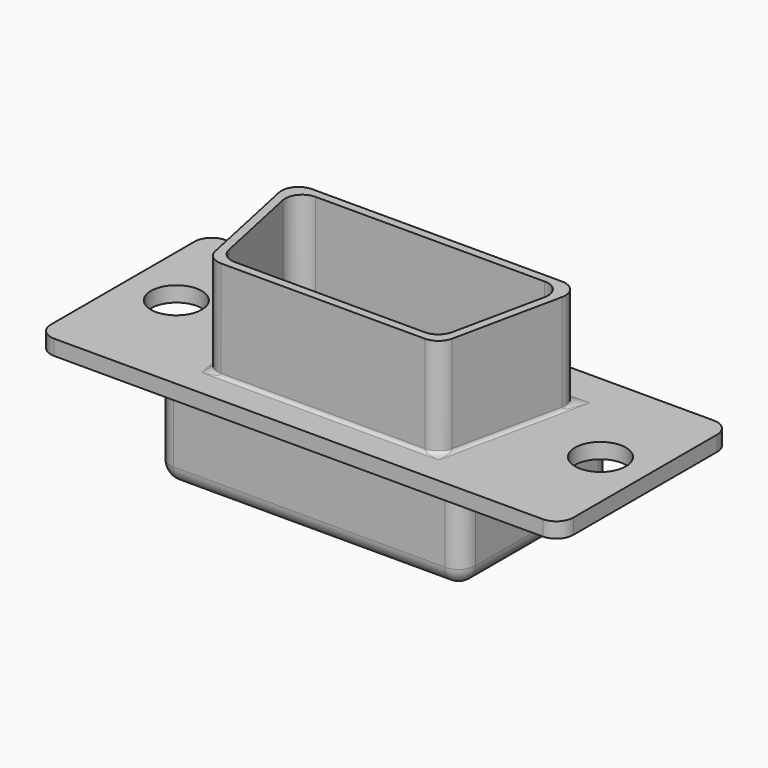
from build123d import *

# Parameters (mm, degrees)
CYLINDER_R        = 1.5
CYLINDER_DEPTH    = 10
CYLINDER001_R     = 1.5
CYLINDER001_DEPTH = 10
BOX001_W          = 18
BOX001_H          = 11
BOX001_DEPTH      = 5.2
BOX_W             = 30.8
BOX_H             = 12.6
BOX_DEPTH         = 0.9
FILLET_R          = 1
FILLET001_R       = 1
PAD_DEPTH         = 5.9
FILLET002_R       = 0.2
FILLET003_R       = 1


with BuildPart() as cylinder:
    # Cylinder → Cylinder (new body)
    with BuildSketch(Plane.XY.offset(-2)):
        Circle(CYLINDER_R)
    extrude(amount=CYLINDER_DEPTH)


with BuildPart() as fusion:
    # Cylinder001 → Cylinder001 (new body)
    with BuildSketch(Plane(origin=(25, 0, -2), x_dir=(1, 0, 0), z_dir=(0, 0, 1))):
        Circle(CYLINDER001_R)
    extrude(amount=CYLINDER001_DEPTH)

    # Fusion: union Cylinder
    add(cylinder.part)


with BuildPart() as fusion_1:
    # Fusion placement: moved
    add(fusion.part.moved(Location((3, 6.5, 0))))


with BuildPart() as cube001:
    # Box001 → Box001 (new body)
    with BuildSketch(Plane(origin=(6.4, 0.8, -5), x_dir=(1, 0, 0), z_dir=(0, 0, 1))):
        with Locations((9, 5.5)):
            Rectangle(BOX001_W, BOX001_H)
    extrude(amount=BOX001_DEPTH)


with BuildPart() as fillet003:
    # Box → Box (new body)
    with BuildSketch(Plane.XY):
        with Locations((15.4, 6.3)):
            Rectangle(BOX_W, BOX_H)
    extrude(amount=BOX_DEPTH)

    # Fusion001: union Cube001
    add(cube001.part)

    # Cut: cut Fusion
    add(fusion_1.part, mode=Mode.SUBTRACT)

    # Fillet
    fillet_edges = [fillet003.edges().sort_by_distance(p)[0] for p in [
        (24.4, 0.8, -2.5),
        (24.4, 11.8, -2.5),
        (24.4, 6.3, -5),
        (6.4, 0.8, -2.5),
        (15.4, 0.8, -5),
        (6.4, 11.8, -2.5),
        (15.4, 11.8, -5),
        (6.4, 6.3, -5),
    ]]
    fillet(fillet_edges, radius=FILLET_R)

    # Fillet001
    fillet001_edges = [fillet003.edges().sort_by_distance(p)[0] for p in [
        (0, 0, 0.45),
        (0, 12.6, 0.45),
        (30.8, 12.6, 0.45),
        (30.8, 0, 0.45),
    ]]
    fillet(fillet001_edges, radius=FILLET001_R)

    # Sketch → Pad (new body)
    with BuildSketch(Plane.XY.offset(0.9)):
        Polygon((6.8, 10.204892), (24, 10.204892), (22.214525, 1.804892), (8.585475, 1.804892), align=None)
        Polygon((7.417449, 9.704892), (23.382551, 9.704892), (21.809633, 2.304892), (8.990367, 2.304892), align=None, mode=Mode.SUBTRACT)
    extrude(amount=PAD_DEPTH)

    # Fillet002
    fillet002_edges = [fillet003.edges().sort_by_distance(p)[0] for p in [
        (15.4, 10.204892, 0.9),
        (23.107262, 6.004892, 0.9),
        (15.4, 1.804892, 0.9),
        (7.692738, 6.004892, 0.9),
    ]]
    fillet(fillet002_edges, radius=FILLET002_R)

    # Fillet003
    fillet003_edges = [fillet003.edges().sort_by_distance(p)[0] for p in [
        (6.8, 10.204892, 3.95),
        (24, 10.204892, 3.95),
        (8.585475, 1.804892, 3.95),
        (22.214525, 1.804892, 3.95),
        (7.417449, 9.704892, 3.85),
        (23.382551, 9.704892, 3.85),
        (21.809633, 2.304892, 3.85),
        (8.990367, 2.304892, 3.85),
    ]]
    fillet(fillet003_edges, radius=FILLET003_R)


solid = fillet003.part
